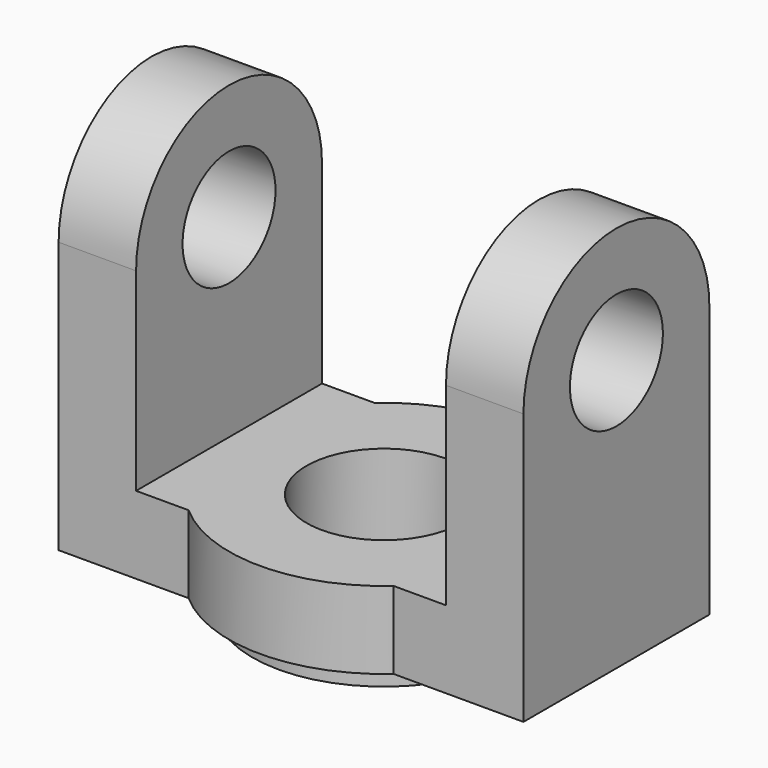
from build123d import *

# Parameters (mm, degrees)
F1_DEPTH = 30
F2_R     = 7.5
F3_DEPTH = 60.001
F5_DEPTH = 10
F6_R     = 10
F7_DEPTH = 10.001
F8_R     = 17
F8_R_2   = 10
F9_DEPTH = 3


with BuildPart() as f1:
    # F0 (on Front) → F1 (new body)
    with BuildSketch(Plane.XZ):
        Polygon((-20, 40), (-30, 40), (-30, -10), (30, -10), (30, 40), (20, 40), (20, 0), (-20, 0), align=None)
    extrude(amount=F1_DEPTH)

    # F2 (on face) → F3 (cut, through all)
    with BuildSketch(Plane.YZ.offset(30)):
        with BuildLine():
            ThreePointArc((-15, 40), (-4.3933982822, 35.6066017178), (0, 25))
            Line((0, 25), (0, 40))
            Line((0, 40), (-15, 40))
        make_face()
        with BuildLine():
            ThreePointArc((-30, 25), (-25.6066017178, 35.6066017178), (-15, 40))
            Line((-15, 40), (-30, 40))
            Line((-30, 40), (-30, 25))
        make_face()
        with Locations((-15, 25)):
            Circle(F2_R)
    extrude(amount=-F3_DEPTH, mode=Mode.SUBTRACT)

    # F4 (on face) → F5 (join)
    with BuildSketch(Plane.XY):
        with BuildLine():
            Line((-13.2287565553, 0), (13.2287565553, 0))
            ThreePointArc((13.2287565553, 0), (0, 5), (-13.2287565553, 0))
        make_face()
        with BuildLine():
            ThreePointArc((13.2287565553, -30), (18.2287565553, -23.2287565553), (20, -15))
            ThreePointArc((20, -15), (18.2287565553, -6.7712434447), (13.2287565553, 0))
            Line((13.2287565553, 0), (-13.2287565553, 0))
            ThreePointArc((-13.2287565553, 0), (-18.2287565553, -6.7712434447), (-20, -15))
            ThreePointArc((-20, -15), (-18.2287565553, -23.2287565553), (-13.2287565553, -30))
            Line((-13.2287565553, -30), (13.2287565553, -30))
        make_face()
        with BuildLine():
            ThreePointArc((-13.2287565553, -30), (0, -35), (13.2287565553, -30))
            Line((13.2287565553, -30), (-13.2287565553, -30))
        make_face()
    extrude(amount=-F5_DEPTH)

    # F6 (on face) → F7 (cut, through all)
    with BuildSketch(Plane.XY):
        with Locations((0, -15)):
            Circle(F6_R)
    extrude(amount=-F7_DEPTH, mode=Mode.SUBTRACT)

    # F8 (on face) → F9 (join)
    with BuildSketch(Plane(origin=(0, 0, -10), x_dir=(1, 0, 0), z_dir=(0, 0, -1))):
        with Locations((0, 15)):
            Circle(F8_R)
        with Locations((0, 15)):
            Circle(F8_R_2, mode=Mode.SUBTRACT)
    extrude(amount=F9_DEPTH)


solid = f1.part
